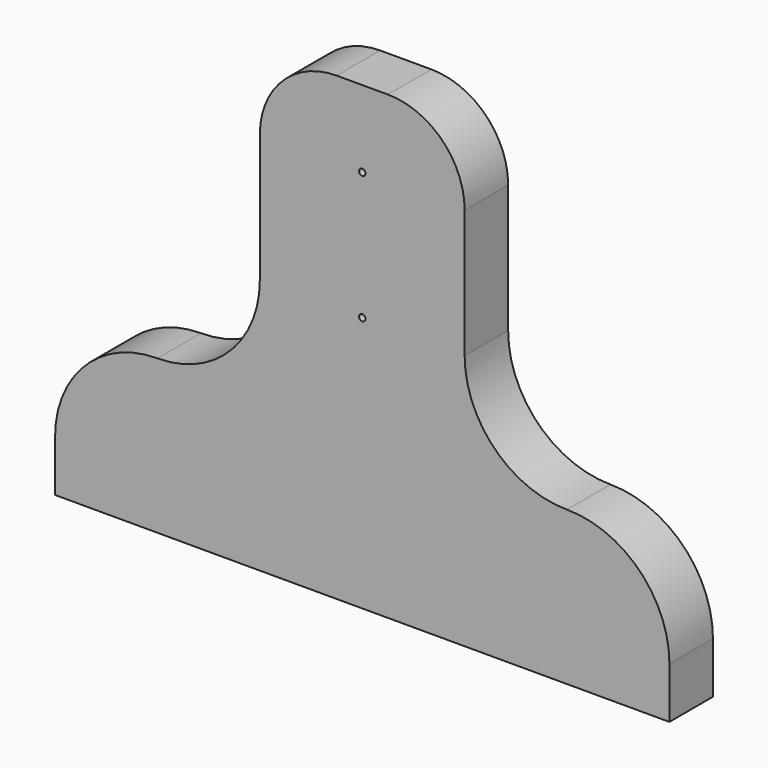
from build123d import *

# Parameters (mm, degrees)
F0_R     = 0.79375
F1_DEPTH = 13.49375
F2_R     = 2.38125
F3_DEPTH = 12.7


with BuildPart() as f1:
    # F0 (on Front) → F1 (new body)
    with BuildSketch(Plane.XZ):
        with BuildLine():
            Line((-76.2, 12.7), (-76.2, 0))
            Line((-76.2, 0), (76.2, 0))
            Line((76.2, 0), (76.2, 12.7))
            ThreePointArc((76.2, 12.7), (68.760512, 30.660512), (50.8, 38.1))
            ThreePointArc((50.8, 38.1), (32.839488, 45.539488), (25.4, 63.5))
            Line((25.4, 63.5), (25.4, 95.25))
            ThreePointArc((25.4, 95.25), (19.820384, 108.720384), (6.35, 114.3))
            Line((6.35, 114.3), (-6.35, 114.3))
            ThreePointArc((-6.35, 114.3), (-19.820384, 108.720384), (-25.4, 95.25))
            Line((-25.4, 95.25), (-25.4, 63.5))
            ThreePointArc((-25.4, 63.5), (-32.839488, 45.539488), (-50.8, 38.1))
            ThreePointArc((-50.8, 38.1), (-68.760512, 30.660512), (-76.2, 12.7))
        make_face()
        with Locations((0, 63.5)):
            Circle(F0_R, mode=Mode.SUBTRACT)
        with Locations((0, 95.25)):
            Circle(F0_R, mode=Mode.SUBTRACT)
    extrude(amount=F1_DEPTH)

    # F2 (on face) → F3 (cut)
    with BuildSketch(Plane(origin=(0, 0, 0), x_dir=(1, 0, 0), z_dir=(0, 0, -1))):
        with Locations((-50.8, 6.746875)):
            Circle(F2_R)
        with Locations((50.8, 6.746875)):
            Circle(F2_R)
    extrude(amount=-F3_DEPTH, mode=Mode.SUBTRACT)


solid = f1.part
